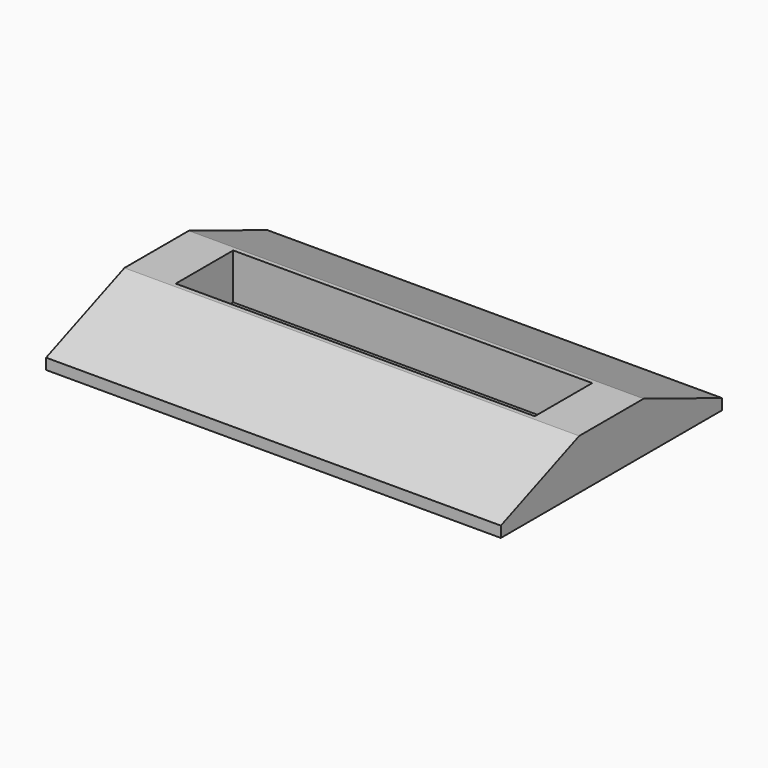
from build123d import *

# Parameters (mm, degrees)
F0_W     = 165
F0_H     = 33
F1_DEPTH = 2
F0_W_2   = 169
F0_H_2   = 37
F2_DEPTH = 23
F0_W_3   = 20
F3_DEPTH = 23
F5_DEPTH = 209


with BuildPart() as f1:
    # F0 (on Top) → F1 (new body)
    with BuildSketch(Plane.XY):
        Rectangle(F0_W, F0_H)
    extrude(amount=F1_DEPTH)

    # F0 (on Top) → F2 (join)
    with BuildSketch(Plane.XY):
        Rectangle(F0_W_2, F0_H_2)
        Rectangle(F0_W, F0_H, mode=Mode.SUBTRACT)
    extrude(amount=F2_DEPTH)

    # F0 (on Top) → F3 (join)
    with BuildSketch(Plane.XY):
        with Locations((-94.5, 0)):
            Rectangle(F0_W_3, F0_H_2)
        with Locations((94.5, 0)):
            Rectangle(F0_W_3, F0_H_2)
    extrude(amount=F3_DEPTH)

    # F4 (on face) → F5 (join)
    with BuildSketch(Plane.YZ.offset(104.5)):
        Polygon((-63.5, 0), (-18.5, 0), (-18.5, 23), (-63.5, 5), align=None)
        Polygon((18.5, 23), (18.5, 0), (63.5, 0), (63.5, 5), align=None)
    extrude(amount=-F5_DEPTH)


solid = f1.part
